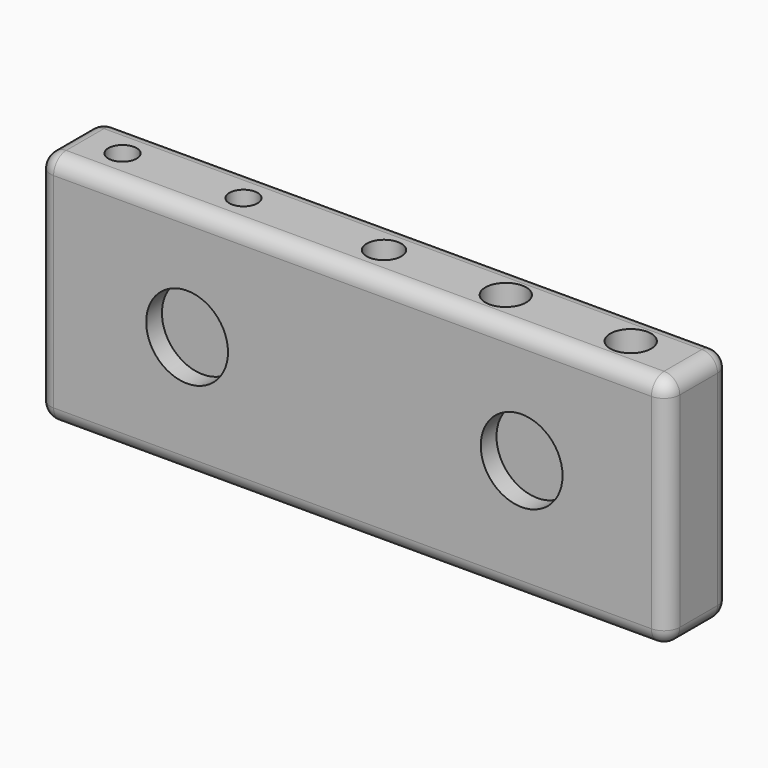
from build123d import *

# Parameters (mm, degrees)
F0_W     = 50.8
F0_H     = 6.35
F0_R     = 1.143
F0_R_2   = 1.397
F0_R_3   = 1.651
F1_DEPTH = 19.05
F2_R     = 1.27
F4_R     = 3.302
F5_DEPTH = 1.5875


with BuildPart() as f1:
    # F0 (on Top) → F1 (new body)
    with BuildSketch(Plane.XY):
        Rectangle(F0_W, F0_H)
        with Locations((-21.107789129, 0)):
            Circle(F0_R, mode=Mode.SUBTRACT)
        with Locations((-11.3432221115, 0)):
            Circle(F0_R, mode=Mode.SUBTRACT)
        Circle(F0_R_2, mode=Mode.SUBTRACT)
        with Locations((9.8313204944, 0)):
            Circle(F0_R_3, mode=Mode.SUBTRACT)
        with Locations((19.9195742607, 0)):
            Circle(F0_R_3, mode=Mode.SUBTRACT)
    extrude(amount=F1_DEPTH)

    # F2
    f2_edges = [f1.edges().sort_by_distance(p)[0] for p in [
        (0, -3.175, 19.05),
        (0, 3.175, 19.05),
        (-25.4, 0, 19.05),
        (25.4, 0, 19.05),
        (-25.4, -3.175, 9.525),
        (-25.4, 3.175, 9.525),
        (25.4, -3.175, 9.525),
        (25.4, 3.175, 9.525),
        (0, -3.175, 0),
        (0, 3.175, 0),
        (25.4, 0, 0),
        (-25.4, 0, 0),
    ]]
    fillet(f2_edges, radius=F2_R)

    # F4 (on offset) → F5 (cut)
    with BuildSketch(Plane.XZ.offset(3.175)):
        with Locations((13.6511175489, 9.8055116832)):
            Circle(F4_R)
        with Locations((-13.3547777533, 9.8055116832)):
            Circle(F4_R)
    extrude(amount=-F5_DEPTH, mode=Mode.SUBTRACT)


solid = f1.part
